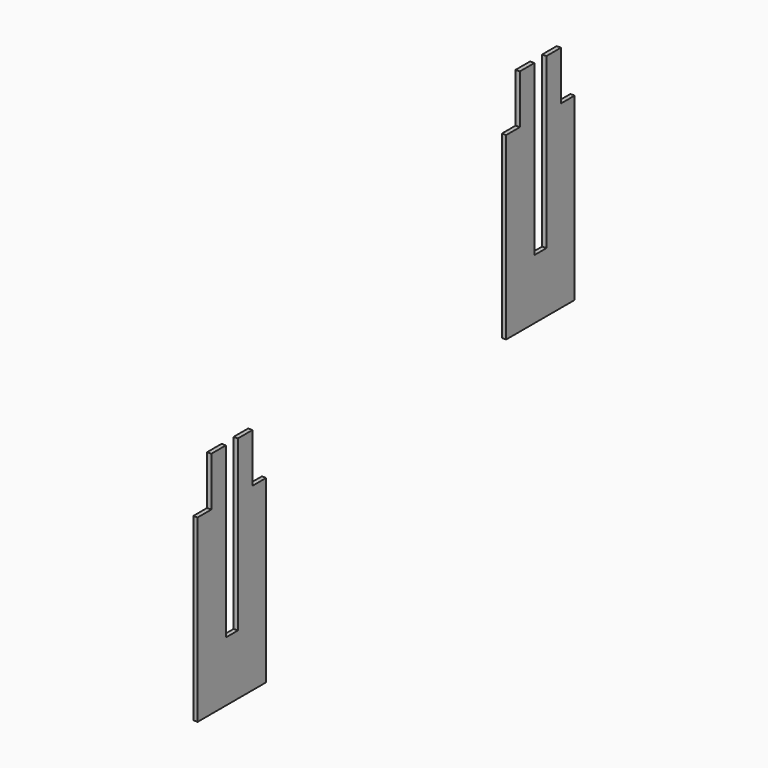
from build123d import *

# Parameters (mm, degrees)
F1_DEPTH = 25.4


with BuildPart() as f1:
    # F0 (on Right) → F1 (new body)
    with BuildSketch(Plane.YZ):
        Polygon((990.6, 414.547508), (889, 414.547508), (889, -652.252492), (1397, -652.252492), (1397, 414.547508), (1295.4, 414.547508), (1295.4, 604.05494), (1295.4, 705.65494), (1187.45, 705.65494), (1187.45, -296.652492), (1098.55, -296.652492), (1098.55, 705.65494), (990.6, 705.65494), align=None)
    extrude(amount=F1_DEPTH)


with BuildPart() as f2_1:
    # F2: copy of F1
    add(f1.part.moved(Location((0, -2286, -1065.9872))))


solid = Compound([f1.part, f2_1.part])
